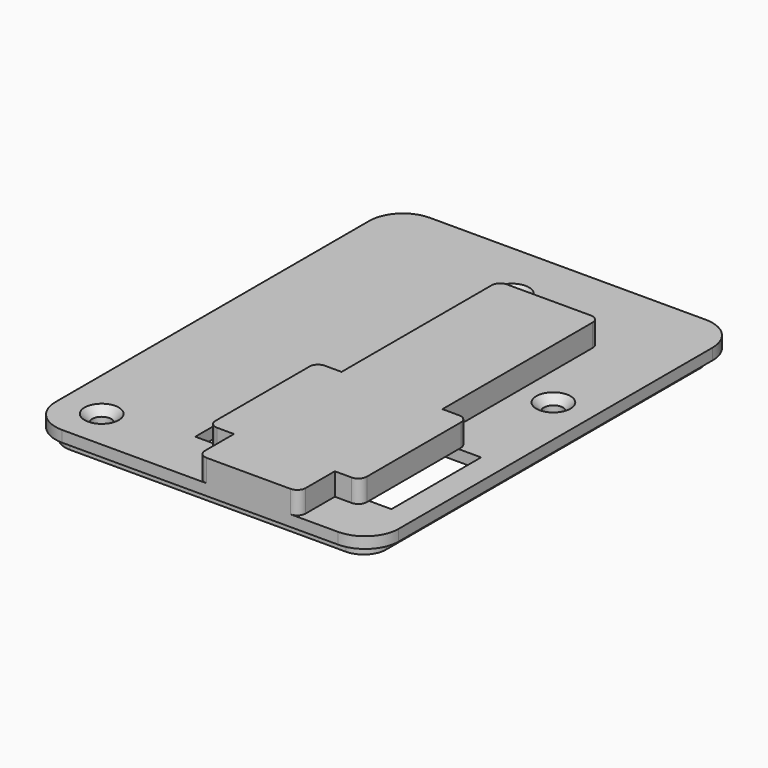
from build123d import *

# Parameters (mm, degrees)
SKETCH008_W      = 57.25
SKETCH008_H      = 78
PAD004_DEPTH     = 2
SKETCH009_W      = 61.25
SKETCH009_H      = 82
PAD005_DEPTH     = 2
PAD006_DEPTH     = 4
POCKET004_DEPTH  = 20
HOLE_D           = 3.4
HOLE_DEPTH       = 25
HOLE_CSINK_D     = 6.1
HOLE_CSINK_ANGLE = 90
FILLET003_R      = 3
FILLET004_R      = 4
FILLET005_R      = 1.5
FILLET006_R      = 6


with BuildPart() as part:
    # Sketch008 → Pad004 (new body)
    with BuildSketch(Plane.XY):
        with Locations((-8.875, 0)):
            Rectangle(SKETCH008_W, SKETCH008_H)
        with BuildLine():
            ThreePointArc((-13.5, 30.25), (-10, 26.75), (-6.5, 30.25))
            Line((-6.5, 30.25), (-6.5, 38))
            Line((-6.5, 38), (18.75, 38))
            Line((18.75, 38), (18.75, 11.75))
            Line((15, 11.75), (18.75, 11.75))
            ThreePointArc((15, 11.75), (11.5, 8.25), (15, 4.75))
            Line((15, 4.75), (18.75, 4.75))
            Line((18.75, 4.75), (18.75, -38))
            Line((18.75, -38), (-28.5, -38))
            Line((-28.5, -33.75), (-28.5, -38))
            ThreePointArc((-28.5, -33.75), (-29.525126, -31.275126), (-32, -30.25))
            Line((-32, -30.25), (-36.5, -30.25))
            Line((-36.5, -30.25), (-36.5, 38))
            Line((-36.5, 38), (-13.5, 38))
            Line((-13.5, 30.25), (-13.5, 38))
        make_face(mode=Mode.SUBTRACT)
    extrude(amount=-PAD004_DEPTH)

    # Sketch009 → Pad005 (join)
    with BuildSketch(Plane.XY):
        with Locations((-8.625, 0)):
            Rectangle(SKETCH009_W, SKETCH009_H)
    extrude(amount=PAD005_DEPTH)

    # Sketch010 (on DatumPlane) → Pad006 (join)
    with BuildSketch(Plane.XY.offset(2)):
        Polygon((-13.5, -33), (-9, -33), (-9, -41), (9, -41), (9, -33), (13.5, -33), (13.5, -9), (9, -9), (9, 26), (-9, 26), (-9, -9), (-13.5, -9), align=None)
    extrude(amount=PAD006_DEPTH)

    # Sketch011 (on DatumPlane) → Pocket004 (cut)
    with BuildSketch(Plane.XZ.offset(31)):
        Polygon((-17.5, 7), (-17.5, 0), (17.5, 0), (17.5, 7), (13.5, 7), (13.5, 2), (-13.5, 2), (-13.5, 7), align=None)
    extrude(amount=-POCKET004_DEPTH, mode=Mode.SUBTRACT)

    # Hole
    with Locations(Plane.XY.offset(2)):
        with Locations((-32, -33.75), (-10, 30.25), (15, 8.25)):
            CounterSinkHole(HOLE_D / 2, HOLE_CSINK_D / 2, depth=HOLE_DEPTH, counter_sink_angle=HOLE_CSINK_ANGLE)

    # Fillet003
    fillet003_edges = [part.edges().sort_by_distance(p)[0] for p in [
        (18.75, 4.75, -1),
        (18.75, 11.75, -1),
        (-6.5, 38, -1),
        (-13.5, 38, -1),
        (-36.5, -30.25, -1),
        (-28.5, -38, -1),
        (-36.5, 38, -1),
        (18.75, -38, -1),
        (18.75, 38, -1),
    ]]
    fillet(fillet003_edges, radius=FILLET003_R)

    # Fillet004
    fillet004_edges = [part.edges().sort_by_distance(p)[0] for p in [
        (19.75, -39, -1),
        (-37.5, -39, -1),
        (19.75, 39, -1),
        (-37.5, 39, -1),
    ]]
    fillet(fillet004_edges, radius=FILLET004_R)

    # Fillet005
    fillet005_edges = [part.edges().sort_by_distance(p)[0] for p in [
        (9, -41, 4),
        (-9, -41, 4),
        (13.5, -9, 4),
        (9, 26, 4),
        (-9, 26, 4),
        (-13.5, -9, 4),
        (-13.5, -33, 4),
        (13.5, -33, 4),
    ]]
    fillet(fillet005_edges, radius=FILLET005_R)

    # Fillet006
    fillet006_edges = [part.edges().sort_by_distance(p)[0] for p in [
        (-39.25, -41, 1),
        (22, -41, 1),
        (22, 41, 1),
        (-39.25, 41, 1),
    ]]
    fillet(fillet006_edges, radius=FILLET006_R)


solid = part.part
